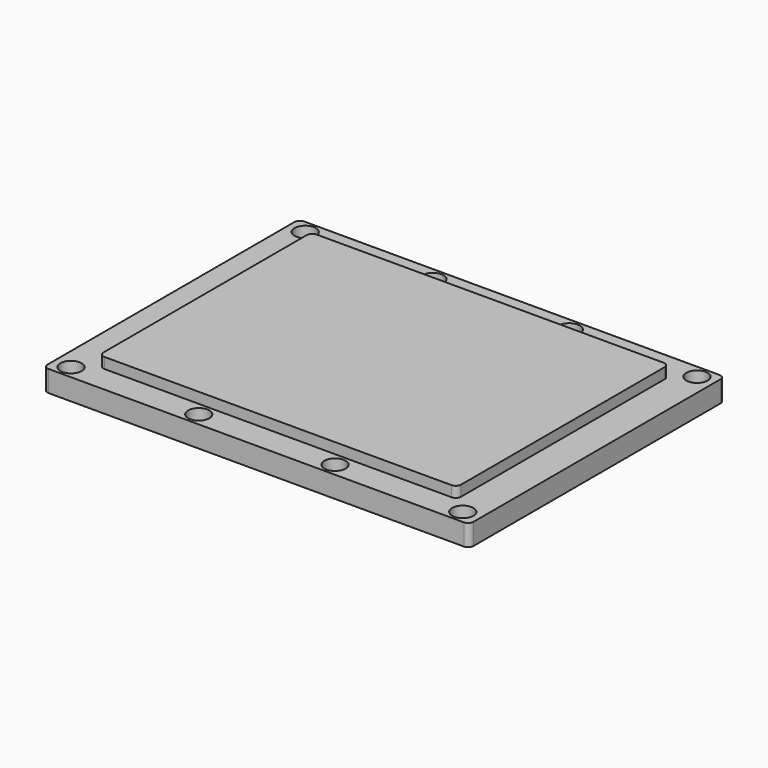
from build123d import *

# Parameters (mm, degrees)
SKETCH_W     = 40
SKETCH_H     = 30
PAD_DEPTH    = 2
SKETCH001_W  = 33.6
SKETCH001_H  = 24.9
PAD001_DEPTH = 1
SKETCH002_R  = 1
POCKET_DEPTH = 2
FILLET_R     = 0.5


with BuildPart() as part:
    # Sketch → Pad (new body)
    with BuildSketch(Plane.XY.offset(2)):
        Rectangle(SKETCH_W, SKETCH_H)
    extrude(amount=PAD_DEPTH)

    # Sketch001 (on Face6 of Pad) → Pad001 (join)
    with BuildSketch(Plane.XY.offset(4)):
        Rectangle(SKETCH001_W, SKETCH001_H)
    extrude(amount=PAD001_DEPTH)

    # Sketch002 → Pocket (cut)
    with BuildSketch(Plane.XY.offset(2)):
        with Locations((-18.4, 13.75)):
            Circle(SKETCH002_R)
        with Locations((-6.4, 13.75)):
            Circle(SKETCH002_R)
        with Locations((6.4, 13.75)):
            Circle(SKETCH002_R)
        with Locations((18.4, 13.75)):
            Circle(SKETCH002_R)
        with Locations((18.4, -13.75)):
            Circle(SKETCH002_R)
        with Locations((6.4, -13.75)):
            Circle(SKETCH002_R)
        with Locations((-6.4, -13.75)):
            Circle(SKETCH002_R)
        with Locations((-18.4, -13.75)):
            Circle(SKETCH002_R)
    extrude(amount=POCKET_DEPTH, mode=Mode.SUBTRACT)

    # Fillet
    fillet_edges = [part.edges().sort_by_distance(p)[0] for p in [
        (20, 15, 3),
        (16.8, 12.45, 4.5),
        (20, -15, 3),
        (16.8, -12.45, 4.5),
        (-20, -15, 3),
        (-16.8, -12.45, 4.5),
        (-20, 15, 3),
        (-16.8, 12.45, 4.5),
    ]]
    fillet(fillet_edges, radius=FILLET_R)


solid = part.part
